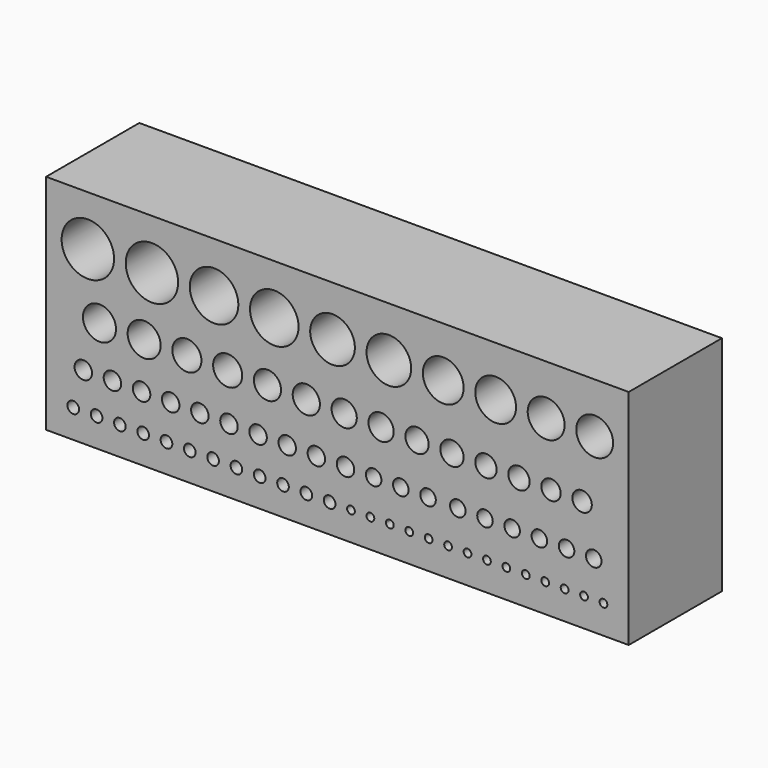
from build123d import *

# Parameters (mm, degrees)
F1_DEPTH = 25
F2_W     = 144.520916
F2_H     = 17.829561
F3_DEPTH = 9.2
F4_W     = 150
F4_H     = 57.359884
F5_DEPTH = 5


with BuildPart() as f1:
    # F0 (on Front) → F1 (new body)
    with BuildSketch(Plane.XZ):
        with BuildLine():
            Line((75, 15.779151), (75, 28.679942))
            Line((75, 28.679942), (-75, 28.679942))
            Line((-75, 28.679942), (-75, 15.779151))
            Line((-75, 15.779151), (-71, 15.779151))
            ThreePointArc((-71, 15.779151), (-64.25, 22.529151), (-57.5, 15.779151))
            Line((-57.5, 15.779151), (-54.5, 15.779151))
            ThreePointArc((-54.5, 15.779151), (-47.75, 22.529151), (-41, 15.779151))
            Line((-41, 15.779151), (-38, 15.779151))
            ThreePointArc((-38, 15.779151), (-31.75, 22.029151), (-25.5, 15.779151))
            Line((-25.5, 15.779151), (-22.5, 15.779151))
            ThreePointArc((-22.5, 15.779151), (-16.25, 22.029151), (-10, 15.779151))
            Line((-10, 15.779151), (-7, 15.779151))
            ThreePointArc((-7, 15.779151), (-1.25, 21.529151), (4.5, 15.779151))
            Line((4.5, 15.779151), (7.5, 15.779151))
            ThreePointArc((7.5, 15.779151), (13.25, 21.529151), (19, 15.779151))
            Line((19, 15.779151), (22, 15.779151))
            ThreePointArc((22, 15.779151), (27.25, 21.029151), (32.5, 15.779151))
            Line((32.5, 15.779151), (35.5, 15.779151))
            ThreePointArc((35.5, 15.779151), (40.75, 21.029151), (46, 15.779151))
            Line((46, 15.779151), (49, 15.779151))
            ThreePointArc((49, 15.779151), (53.75, 20.529151), (58.5, 15.779151))
            Line((58.5, 15.779151), (61.5, 15.779151))
            ThreePointArc((61.5, 15.779151), (66.25, 20.529151), (71, 15.779151))
            Line((71, 15.779151), (75, 15.779151))
        make_face()
        with BuildLine():
            Line((75, 0), (75, 15.779151))
            Line((75, 15.779151), (71, 15.779151))
            ThreePointArc((71, 15.779151), (66.25, 11.029151), (61.5, 15.779151))
            Line((61.5, 15.779151), (58.5, 15.779151))
            ThreePointArc((58.5, 15.779151), (53.75, 11.029151), (49, 15.779151))
            Line((49, 15.779151), (46, 15.779151))
            ThreePointArc((46, 15.779151), (40.75, 10.529151), (35.5, 15.779151))
            Line((35.5, 15.779151), (32.5, 15.779151))
            ThreePointArc((32.5, 15.779151), (27.25, 10.529151), (22, 15.779151))
            Line((22, 15.779151), (19, 15.779151))
            ThreePointArc((19, 15.779151), (13.25, 10.029151), (7.5, 15.779151))
            Line((7.5, 15.779151), (4.5, 15.779151))
            ThreePointArc((4.5, 15.779151), (-1.25, 10.029151), (-7, 15.779151))
            Line((-7, 15.779151), (-10, 15.779151))
            ThreePointArc((-10, 15.779151), (-16.25, 9.529151), (-22.5, 15.779151))
            Line((-22.5, 15.779151), (-25.5, 15.779151))
            ThreePointArc((-25.5, 15.779151), (-31.75, 9.529151), (-38, 15.779151))
            Line((-38, 15.779151), (-41, 15.779151))
            ThreePointArc((-41, 15.779151), (-47.75, 9.029151), (-54.5, 15.779151))
            Line((-54.5, 15.779151), (-57.5, 15.779151))
            ThreePointArc((-57.5, 15.779151), (-64.25, 9.029151), (-71, 15.779151))
            Line((-71, 15.779151), (-75, 15.779151))
            Line((-75, 15.779151), (-75, 0))
            Line((-75, 0), (-65.5, 0))
            ThreePointArc((-65.5, 0), (-61.25, 4.25), (-57, 0))
            Line((-57, 0), (-54, 0))
            ThreePointArc((-54, 0), (-49.75, 4.25), (-45.5, 0))
            Line((-45.5, 0), (-42.5, 0))
            ThreePointArc((-42.5, 0), (-38.75, 3.75), (-35, 0))
            Line((-35, 0), (-32, 0))
            ThreePointArc((-32, 0), (-28.25, 3.75), (-24.5, 0))
            Line((-24.5, 0), (-21.5, 0))
            ThreePointArc((-21.5, 0), (-18, 3.5), (-14.5, 0))
            Line((-14.5, 0), (-11.5, 0))
            ThreePointArc((-11.5, 0), (-8, 3.5), (-4.5, 0))
            Line((-4.5, 0), (-1.5, 0))
            ThreePointArc((-1.5, 0), (1.75, 3.25), (5, 0))
            Line((5, 0), (8, 0))
            ThreePointArc((8, 0), (11.25, 3.25), (14.5, 0))
            Line((14.5, 0), (17.5, 0))
            ThreePointArc((17.5, 0), (20.5, 3), (23.5, 0))
            Line((23.5, 0), (26.5, 0))
            ThreePointArc((26.5, 0), (29.5, 3), (32.5, 0))
            Line((32.5, 0), (35.5, 0))
            ThreePointArc((35.5, 0), (38.25, 2.75), (41, 0))
            Line((41, 0), (44, 0))
            ThreePointArc((44, 0), (46.75, 2.75), (49.5, 0))
            Line((49.5, 0), (52.5, 0))
            ThreePointArc((52.5, 0), (55, 2.5), (57.5, 0))
            Line((57.5, 0), (60.5, 0))
            ThreePointArc((60.5, 0), (63, 2.5), (65.5, 0))
            Line((65.5, 0), (75, 0))
        make_face()
        with BuildLine():
            Line((75, -12), (75, 0))
            Line((75, 0), (65.5, 0))
            ThreePointArc((65.5, 0), (63, -2.5), (60.5, 0))
            Line((60.5, 0), (57.5, 0))
            ThreePointArc((57.5, 0), (55, -2.5), (52.5, 0))
            Line((52.5, 0), (49.5, 0))
            ThreePointArc((49.5, 0), (46.75, -2.75), (44, 0))
            Line((44, 0), (41, 0))
            ThreePointArc((41, 0), (38.25, -2.75), (35.5, 0))
            Line((35.5, 0), (32.5, 0))
            ThreePointArc((32.5, 0), (29.5, -3), (26.5, 0))
            Line((26.5, 0), (23.5, 0))
            ThreePointArc((23.5, 0), (20.5, -3), (17.5, 0))
            Line((17.5, 0), (14.5, 0))
            ThreePointArc((14.5, 0), (11.25, -3.25), (8, 0))
            Line((8, 0), (5, 0))
            ThreePointArc((5, 0), (1.75, -3.25), (-1.5, 0))
            Line((-1.5, 0), (-4.5, 0))
            ThreePointArc((-4.5, 0), (-8, -3.5), (-11.5, 0))
            Line((-11.5, 0), (-14.5, 0))
            ThreePointArc((-14.5, 0), (-18, -3.5), (-21.5, 0))
            Line((-21.5, 0), (-24.5, 0))
            ThreePointArc((-24.5, 0), (-28.25, -3.75), (-32, 0))
            Line((-32, 0), (-35, 0))
            ThreePointArc((-35, 0), (-38.75, -3.75), (-42.5, 0))
            Line((-42.5, 0), (-45.5, 0))
            ThreePointArc((-45.5, 0), (-49.75, -4.25), (-54, 0))
            Line((-54, 0), (-57, 0))
            ThreePointArc((-57, 0), (-61.25, -4.25), (-65.5, 0))
            Line((-65.5, 0), (-75, 0))
            Line((-75, 0), (-75, -12))
            Line((-75, -12), (-67.663421, -12))
            ThreePointArc((-67.663421, -12), (-65.413421, -9.75), (-63.163421, -12))
            Line((-63.163421, -12), (-60.163421, -12))
            ThreePointArc((-60.163421, -12), (-57.913421, -9.75), (-55.663421, -12))
            Line((-55.663421, -12), (-52.663421, -12))
            ThreePointArc((-52.663421, -12), (-50.413421, -9.75), (-48.163421, -12))
            Line((-48.163421, -12), (-45.163421, -12))
            ThreePointArc((-45.163421, -12), (-42.913421, -9.75), (-40.663421, -12))
            Line((-40.663421, -12), (-37.663421, -12))
            ThreePointArc((-37.663421, -12), (-35.413421, -9.75), (-33.163421, -12))
            Line((-33.163421, -12), (-30.163421, -12))
            ThreePointArc((-30.163421, -12), (-27.913421, -9.75), (-25.663421, -12))
            Line((-25.663421, -12), (-22.663421, -12))
            ThreePointArc((-22.663421, -12), (-20.413421, -9.75), (-18.163421, -12))
            Line((-18.163421, -12), (-15.163421, -12))
            ThreePointArc((-15.163421, -12), (-12.913421, -9.75), (-10.663421, -12))
            Line((-10.663421, -12), (-7.663421, -12))
            ThreePointArc((-7.663421, -12), (-5.413421, -9.75), (-3.163421, -12))
            Line((-3.163421, -12), (-0.163421, -12))
            ThreePointArc((-0.163421, -12), (2.086579, -9.75), (4.336579, -12))
            Line((4.336579, -12), (7.336579, -12))
            ThreePointArc((7.336579, -12), (9.336579, -10), (11.336579, -12))
            Line((11.336579, -12), (14.336579, -12))
            ThreePointArc((14.336579, -12), (16.336579, -10), (18.336579, -12))
            Line((18.336579, -12), (21.336579, -12))
            ThreePointArc((21.336579, -12), (23.336579, -10), (25.336579, -12))
            Line((25.336579, -12), (29, -12))
            ThreePointArc((29, -12), (31, -10), (33, -12))
            Line((33, -12), (36, -12))
            ThreePointArc((36, -12), (38, -10), (40, -12))
            Line((40, -12), (43, -12))
            ThreePointArc((43, -12), (45, -10), (47, -12))
            Line((47, -12), (50, -12))
            ThreePointArc((50, -12), (52, -10), (54, -12))
            Line((54, -12), (57, -12))
            ThreePointArc((57, -12), (59, -10), (61, -12))
            Line((61, -12), (64, -12))
            ThreePointArc((64, -12), (66, -10), (68, -12))
            Line((68, -12), (75, -12))
        make_face()
        with BuildLine():
            Line((75, -21.315122), (75, -12))
            Line((75, -12), (68, -12))
            ThreePointArc((68, -12), (66, -14), (64, -12))
            Line((64, -12), (61, -12))
            ThreePointArc((61, -12), (59, -14), (57, -12))
            Line((57, -12), (54, -12))
            ThreePointArc((54, -12), (52, -14), (50, -12))
            Line((50, -12), (47, -12))
            ThreePointArc((47, -12), (45, -14), (43, -12))
            Line((43, -12), (40, -12))
            ThreePointArc((40, -12), (38, -14), (36, -12))
            Line((36, -12), (33, -12))
            ThreePointArc((33, -12), (31, -14), (29, -12))
            Line((29, -12), (25.336579, -12))
            ThreePointArc((25.336579, -12), (23.336579, -14), (21.336579, -12))
            Line((21.336579, -12), (18.336579, -12))
            ThreePointArc((18.336579, -12), (16.336579, -14), (14.336579, -12))
            Line((14.336579, -12), (11.336579, -12))
            ThreePointArc((11.336579, -12), (9.336579, -14), (7.336579, -12))
            Line((7.336579, -12), (4.336579, -12))
            ThreePointArc((4.336579, -12), (2.086579, -14.25), (-0.163421, -12))
            Line((-0.163421, -12), (-3.163421, -12))
            ThreePointArc((-3.163421, -12), (-5.413421, -14.25), (-7.663421, -12))
            Line((-7.663421, -12), (-10.663421, -12))
            ThreePointArc((-10.663421, -12), (-12.913421, -14.25), (-15.163421, -12))
            Line((-15.163421, -12), (-18.163421, -12))
            ThreePointArc((-18.163421, -12), (-20.413421, -14.25), (-22.663421, -12))
            Line((-22.663421, -12), (-25.663421, -12))
            ThreePointArc((-25.663421, -12), (-27.913421, -14.25), (-30.163421, -12))
            Line((-30.163421, -12), (-33.163421, -12))
            ThreePointArc((-33.163421, -12), (-35.413421, -14.25), (-37.663421, -12))
            Line((-37.663421, -12), (-40.663421, -12))
            ThreePointArc((-40.663421, -12), (-42.913421, -14.25), (-45.163421, -12))
            Line((-45.163421, -12), (-48.163421, -12))
            ThreePointArc((-48.163421, -12), (-50.413421, -14.25), (-52.663421, -12))
            Line((-52.663421, -12), (-55.663421, -12))
            ThreePointArc((-55.663421, -12), (-57.913421, -14.25), (-60.163421, -12))
            Line((-60.163421, -12), (-63.163421, -12))
            ThreePointArc((-63.163421, -12), (-65.413421, -14.25), (-67.663421, -12))
            Line((-67.663421, -12), (-75, -12))
            Line((-75, -12), (-75, -21.315122))
            Line((-75, -21.315122), (-69.5, -21.315122))
            ThreePointArc((-69.5, -21.315122), (-68, -19.815122), (-66.5, -21.315122))
            Line((-66.5, -21.315122), (-63.5, -21.315122))
            ThreePointArc((-63.5, -21.315122), (-62, -19.815122), (-60.5, -21.315122))
            Line((-60.5, -21.315122), (-57.5, -21.315122))
            ThreePointArc((-57.5, -21.315122), (-56, -19.815122), (-54.5, -21.315122))
            Line((-54.5, -21.315122), (-51.5, -21.315122))
            ThreePointArc((-51.5, -21.315122), (-50, -19.815122), (-48.5, -21.315122))
            Line((-48.5, -21.315122), (-45.5, -21.315122))
            ThreePointArc((-45.5, -21.315122), (-44, -19.815122), (-42.5, -21.315122))
            Line((-42.5, -21.315122), (-39.5, -21.315122))
            ThreePointArc((-39.5, -21.315122), (-38, -19.815122), (-36.5, -21.315122))
            Line((-36.5, -21.315122), (-33.5, -21.315122))
            ThreePointArc((-33.5, -21.315122), (-32, -19.815122), (-30.5, -21.315122))
            Line((-30.5, -21.315122), (-27.5, -21.315122))
            ThreePointArc((-27.5, -21.315122), (-26, -19.815122), (-24.5, -21.315122))
            Line((-24.5, -21.315122), (-21.5, -21.315122))
            ThreePointArc((-21.5, -21.315122), (-20, -19.815122), (-18.5, -21.315122))
            Line((-18.5, -21.315122), (-15.5, -21.315122))
            ThreePointArc((-15.5, -21.315122), (-14, -19.815122), (-12.5, -21.315122))
            Line((-12.5, -21.315122), (-9.5, -21.315122))
            ThreePointArc((-9.5, -21.315122), (-8, -19.815122), (-6.5, -21.315122))
            Line((-6.5, -21.315122), (-3.5, -21.315122))
            ThreePointArc((-3.5, -21.315122), (-2, -19.815122), (-0.5, -21.315122))
            Line((-0.5, -21.315122), (2.5, -21.315122))
            ThreePointArc((2.5, -21.315122), (3.5, -20.315122), (4.5, -21.315122))
            Line((4.5, -21.315122), (7.5, -21.315122))
            ThreePointArc((7.5, -21.315122), (8.5, -20.315122), (9.5, -21.315122))
            Line((9.5, -21.315122), (12.501688, -21.315122))
            ThreePointArc((12.501688, -21.315122), (13.467099, -20.250725), (14.499578, -21.250197))
            ThreePointArc((14.499578, -21.250197), (14.499051, -21.282677), (14.497469, -21.315122))
            Line((14.497469, -21.315122), (17.499157, -21.315122))
            ThreePointArc((17.499157, -21.315122), (18.499157, -20.315122), (19.499157, -21.315122))
            Line((19.499157, -21.315122), (22.499157, -21.315122))
            ThreePointArc((22.499157, -21.315122), (23.499157, -20.315122), (24.499157, -21.315122))
            Line((24.499157, -21.315122), (27.499157, -21.315122))
            ThreePointArc((27.499157, -21.315122), (28.499157, -20.315122), (29.499157, -21.315122))
            Line((29.499157, -21.315122), (32.499157, -21.315122))
            ThreePointArc((32.499157, -21.315122), (33.499157, -20.315122), (34.499157, -21.315122))
            Line((34.499157, -21.315122), (37.499157, -21.315122))
            ThreePointArc((37.499157, -21.315122), (38.499157, -20.315122), (39.499157, -21.315122))
            Line((39.499157, -21.315122), (42.499157, -21.315122))
            ThreePointArc((42.499157, -21.315122), (43.499157, -20.315122), (44.499157, -21.315122))
            Line((44.499157, -21.315122), (47.499157, -21.315122))
            ThreePointArc((47.499157, -21.315122), (48.499157, -20.315122), (49.499157, -21.315122))
            Line((49.499157, -21.315122), (52.499157, -21.315122))
            ThreePointArc((52.499157, -21.315122), (53.499157, -20.315122), (54.499157, -21.315122))
            Line((54.499157, -21.315122), (57.499157, -21.315122))
            ThreePointArc((57.499157, -21.315122), (58.499157, -20.315122), (59.499157, -21.315122))
            Line((59.499157, -21.315122), (62.499157, -21.315122))
            ThreePointArc((62.499157, -21.315122), (63.499157, -20.315122), (64.499157, -21.315122))
            Line((64.499157, -21.315122), (67.499157, -21.315122))
            ThreePointArc((67.499157, -21.315122), (68.499157, -20.315122), (69.499157, -21.315122))
            Line((69.499157, -21.315122), (75, -21.315122))
        make_face()
        with BuildLine():
            Line((75, -28.679942), (75, -21.315122))
            Line((75, -21.315122), (69.499157, -21.315122))
            ThreePointArc((69.499157, -21.315122), (68.499157, -22.315122), (67.499157, -21.315122))
            Line((67.499157, -21.315122), (64.499157, -21.315122))
            ThreePointArc((64.499157, -21.315122), (63.499157, -22.315122), (62.499157, -21.315122))
            Line((62.499157, -21.315122), (59.499157, -21.315122))
            ThreePointArc((59.499157, -21.315122), (58.499157, -22.315122), (57.499157, -21.315122))
            Line((57.499157, -21.315122), (54.499157, -21.315122))
            ThreePointArc((54.499157, -21.315122), (53.499157, -22.315122), (52.499157, -21.315122))
            Line((52.499157, -21.315122), (49.499157, -21.315122))
            ThreePointArc((49.499157, -21.315122), (48.499157, -22.315122), (47.499157, -21.315122))
            Line((47.499157, -21.315122), (44.499157, -21.315122))
            ThreePointArc((44.499157, -21.315122), (43.499157, -22.315122), (42.499157, -21.315122))
            Line((42.499157, -21.315122), (39.499157, -21.315122))
            ThreePointArc((39.499157, -21.315122), (38.499157, -22.315122), (37.499157, -21.315122))
            Line((37.499157, -21.315122), (34.499157, -21.315122))
            ThreePointArc((34.499157, -21.315122), (33.499157, -22.315122), (32.499157, -21.315122))
            Line((32.499157, -21.315122), (29.499157, -21.315122))
            ThreePointArc((29.499157, -21.315122), (28.499157, -22.315122), (27.499157, -21.315122))
            Line((27.499157, -21.315122), (24.499157, -21.315122))
            ThreePointArc((24.499157, -21.315122), (23.499157, -22.315122), (22.499157, -21.315122))
            Line((22.499157, -21.315122), (19.499157, -21.315122))
            ThreePointArc((19.499157, -21.315122), (18.499157, -22.315122), (17.499157, -21.315122))
            Line((17.499157, -21.315122), (14.497469, -21.315122))
            ThreePointArc((14.497469, -21.315122), (13.499578, -22.250197), (12.501688, -21.315122))
            Line((12.501688, -21.315122), (9.5, -21.315122))
            ThreePointArc((9.5, -21.315122), (8.5, -22.315122), (7.5, -21.315122))
            Line((7.5, -21.315122), (4.5, -21.315122))
            ThreePointArc((4.5, -21.315122), (3.5, -22.315122), (2.5, -21.315122))
            Line((2.5, -21.315122), (-0.5, -21.315122))
            ThreePointArc((-0.5, -21.315122), (-2, -22.815122), (-3.5, -21.315122))
            Line((-3.5, -21.315122), (-6.5, -21.315122))
            ThreePointArc((-6.5, -21.315122), (-8, -22.815122), (-9.5, -21.315122))
            Line((-9.5, -21.315122), (-12.5, -21.315122))
            ThreePointArc((-12.5, -21.315122), (-14, -22.815122), (-15.5, -21.315122))
            Line((-15.5, -21.315122), (-18.5, -21.315122))
            ThreePointArc((-18.5, -21.315122), (-20, -22.815122), (-21.5, -21.315122))
            Line((-21.5, -21.315122), (-24.5, -21.315122))
            ThreePointArc((-24.5, -21.315122), (-26, -22.815122), (-27.5, -21.315122))
            Line((-27.5, -21.315122), (-30.5, -21.315122))
            ThreePointArc((-30.5, -21.315122), (-32, -22.815122), (-33.5, -21.315122))
            Line((-33.5, -21.315122), (-36.5, -21.315122))
            ThreePointArc((-36.5, -21.315122), (-38, -22.815122), (-39.5, -21.315122))
            Line((-39.5, -21.315122), (-42.5, -21.315122))
            ThreePointArc((-42.5, -21.315122), (-44, -22.815122), (-45.5, -21.315122))
            Line((-45.5, -21.315122), (-48.5, -21.315122))
            ThreePointArc((-48.5, -21.315122), (-50, -22.815122), (-51.5, -21.315122))
            Line((-51.5, -21.315122), (-54.5, -21.315122))
            ThreePointArc((-54.5, -21.315122), (-56, -22.815122), (-57.5, -21.315122))
            Line((-57.5, -21.315122), (-60.5, -21.315122))
            ThreePointArc((-60.5, -21.315122), (-62, -22.815122), (-63.5, -21.315122))
            Line((-63.5, -21.315122), (-66.5, -21.315122))
            ThreePointArc((-66.5, -21.315122), (-68, -22.815122), (-69.5, -21.315122))
            Line((-69.5, -21.315122), (-75, -21.315122))
            Line((-75, -21.315122), (-75, -28.679942))
            Line((-75, -28.679942), (75, -28.679942))
        make_face()
    extrude(amount=F1_DEPTH)

    # F2 (on face) → F3 (join)
    with BuildSketch(Plane(origin=(0, 0, 0), x_dir=(-1, 0, 0), z_dir=(0, 1, 0))):
        with Locations((-0.210758, -15.948718)):
            Rectangle(F2_W, F2_H)
    extrude(amount=-F3_DEPTH)

    # F4 (on face) → F5 (join)
    with BuildSketch(Plane(origin=(0, 0, 0), x_dir=(-1, 0, 0), z_dir=(0, 1, 0))):
        Rectangle(F4_W, F4_H)
    extrude(amount=F5_DEPTH)


solid = f1.part
